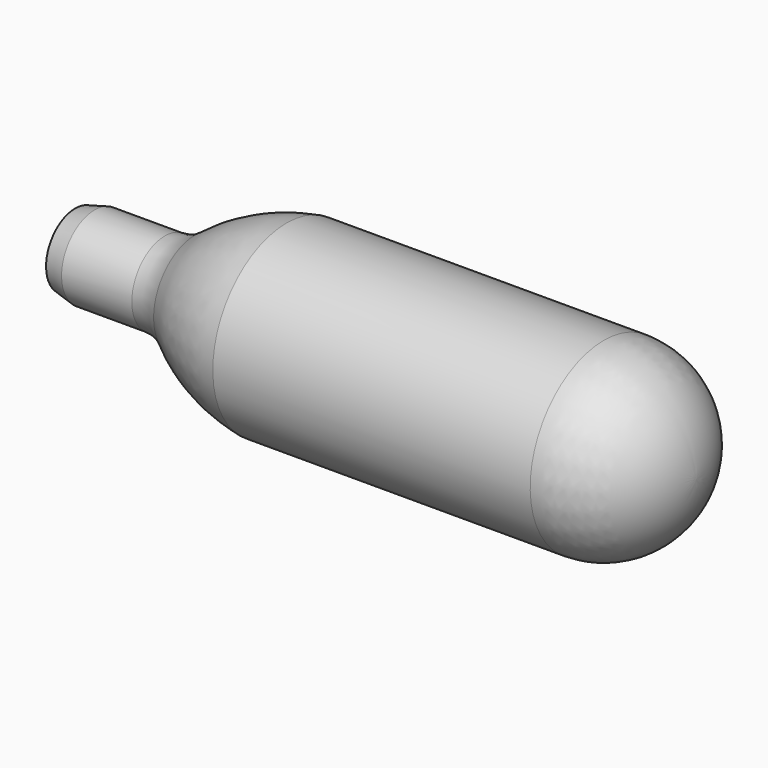
from build123d import *

# Parameters (mm, degrees)
F2_R     = 0.5
F3_DEPTH = 52


with BuildPart() as f1:
    # F0 (on Front) → F1 (revolve)
    with BuildSketch(Plane.XZ):
        with BuildLine():
            Line((-9.5, 0), (0, 0))
            ThreePointArc((0, 0), (-2.782486, 6.717514), (-9.5, 9.5))
            Line((-9.5, 9.5), (-42.213703, 9.5))
            ThreePointArc((-42.213703, 9.5), (-47.19787, 8.040891), (-51.638326, 5.347701))
            ThreePointArc((-51.638326, 5.347701), (-53.107777, 4.5324), (-54.764356, 4.25))
            Line((-54.764356, 4.25), (-62, 4.25))
            Line((-62, 4.25), (-64, 3.75))
            Line((-64, 3.75), (-64, 0))
            Line((-64, 0), (-56, 0))
            Line((-56, 0), (-9.5, 0))
        make_face()
    revolve(axis=Axis((-32, 0, 0), (-1, 0, 0)))

    # F2 (on face) → F3 (cut)
    with BuildSketch(Plane(origin=(-64, 0, 0), x_dir=(0, -1, 0), z_dir=(-1, 0, 0))):
        Circle(F2_R)
    extrude(amount=-F3_DEPTH, mode=Mode.SUBTRACT)


solid = f1.part
